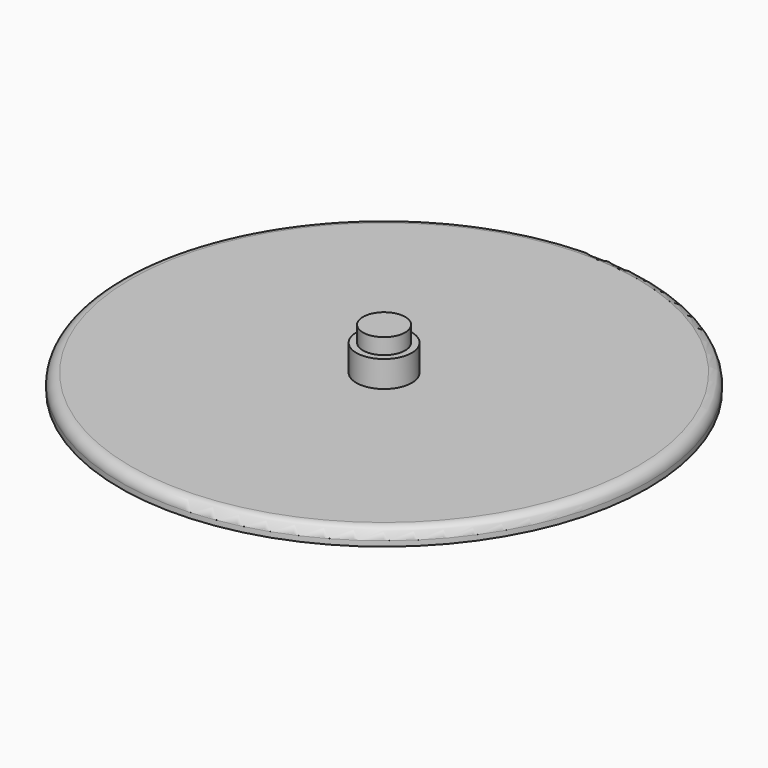
from build123d import *

# Parameters (mm, degrees)
F0_R     = 50
F0_R_2   = 5.25
F1_DEPTH = 3
F0_R_3   = 4
F2_DEPTH = 8
F3_DEPTH = 11
F4_R     = 2


with BuildPart() as f1:
    # F0 (on Top) → F1 (new body)
    with BuildSketch(Plane.XY):
        Circle(F0_R)
        Circle(F0_R_2, mode=Mode.SUBTRACT)
    extrude(amount=F1_DEPTH)

    # F0 (on Top) → F2 (join)
    with BuildSketch(Plane.XY):
        Circle(F0_R_2)
        Circle(F0_R_3, mode=Mode.SUBTRACT)
    extrude(amount=F2_DEPTH)

    # F0 (on Top) → F3 (join)
    with BuildSketch(Plane.XY):
        Circle(F0_R_3)
    extrude(amount=F3_DEPTH)

    # F4
    f4_edges = [f1.edges().sort_by_distance(p)[0] for p in [
        (-50, 0, 3),
    ]]
    fillet(f4_edges, radius=F4_R)


solid = f1.part
